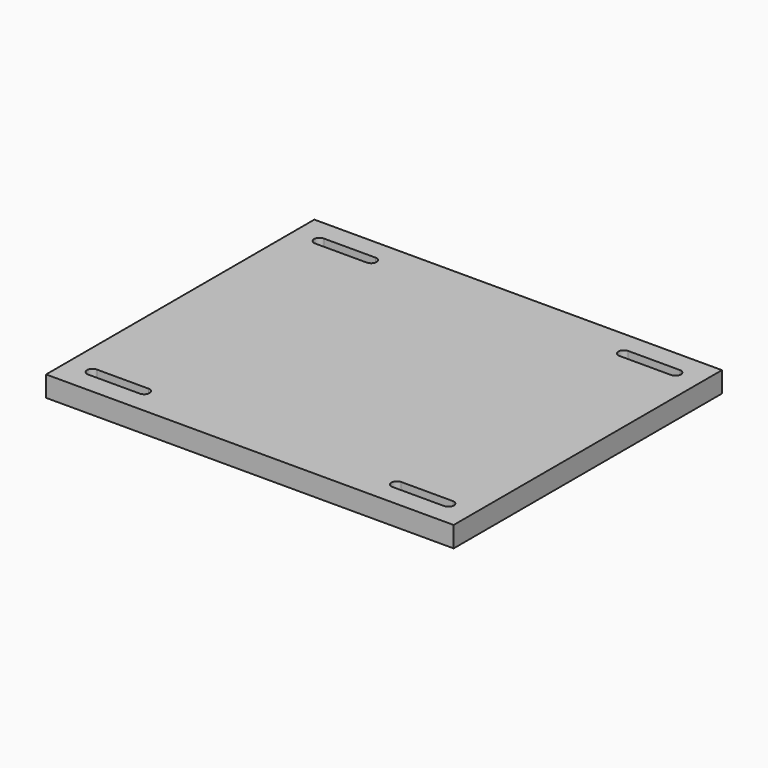
from build123d import *

# Parameters (mm, degrees)
F0_W     = 395
F0_H     = 325
F1_DEPTH = 20
F3_DEPTH = 25


with BuildPart() as f1:
    # F0 (on Top) → F1 (new body)
    with BuildSketch(Plane.XY):
        Rectangle(F0_W, F0_H)
    extrude(amount=-F1_DEPTH)

    # F2 (on face) → F3 (cut)
    with BuildSketch(Plane.XY):
        with BuildLine():
            ThreePointArc((-172.5, 142.75), (-177.75, 137.5), (-172.5, 132.25))
            Line((-172.5, 132.25), (-122.5, 132.25))
            ThreePointArc((-122.5, 132.25), (-117.25, 137.5), (-122.5, 142.75))
            Line((-122.5, 142.75), (-172.5, 142.75))
        make_face()
        with BuildLine():
            Line((-122.5, -132.25), (-172.5, -132.25))
            ThreePointArc((-172.5, -132.25), (-177.75, -137.5), (-172.5, -142.75))
            Line((-172.5, -142.75), (-122.5, -142.75))
            ThreePointArc((-122.5, -142.75), (-117.25, -137.5), (-122.5, -132.25))
        make_face()
        with BuildLine():
            ThreePointArc((172.5, -142.75), (177.75, -137.5), (172.5, -132.25))
            Line((172.5, -132.25), (122.5, -132.25))
            ThreePointArc((122.5, -132.25), (117.25, -137.5), (122.5, -142.75))
            Line((122.5, -142.75), (172.5, -142.75))
        make_face()
        with BuildLine():
            Line((122.5, 132.25), (172.5, 132.25))
            ThreePointArc((172.5, 132.25), (177.75, 137.5), (172.5, 142.75))
            Line((172.5, 142.75), (122.5, 142.75))
            ThreePointArc((122.5, 142.75), (117.25, 137.5), (122.5, 132.25))
        make_face()
    extrude(amount=-F3_DEPTH, mode=Mode.SUBTRACT)


solid = f1.part
